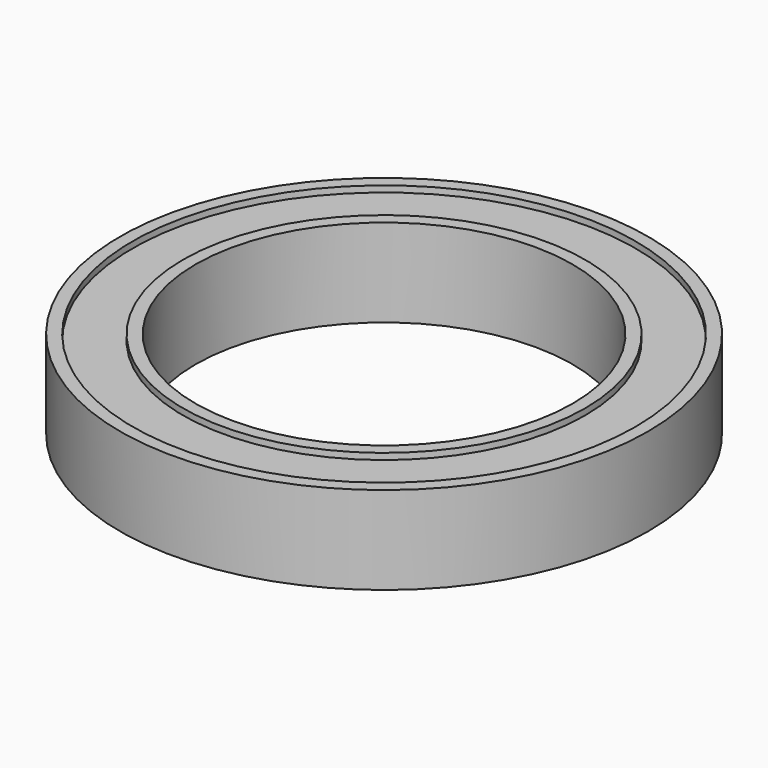
from build123d import *

# Parameters (mm, degrees)
SKETCH022_R     = 21
SKETCH022_R_2   = 15
PAD011_DEPTH    = 7
SKETCH023_R     = 20
SKETCH023_R_2   = 16
POCKET012_DEPTH = 0.5
SKETCH024_R     = 20
SKETCH024_R_2   = 16
POCKET013_DEPTH = 0.5


with BuildPart() as part:
    # Sketch022 → Pad011 (new body)
    with BuildSketch(Plane.XY):
        Circle(SKETCH022_R)
        Circle(SKETCH022_R_2, mode=Mode.SUBTRACT)
    extrude(amount=PAD011_DEPTH)

    # Sketch023 → Pocket012 (cut)
    with BuildSketch(Plane.XY.offset(7)):
        Circle(SKETCH023_R)
        Circle(SKETCH023_R_2, mode=Mode.SUBTRACT)
    extrude(amount=-POCKET012_DEPTH, mode=Mode.SUBTRACT)

    # Sketch024 → Pocket013 (cut)
    with BuildSketch(Plane.XY):
        Circle(SKETCH024_R)
        Circle(SKETCH024_R_2, mode=Mode.SUBTRACT)
    extrude(amount=POCKET013_DEPTH, mode=Mode.SUBTRACT)


solid = part.part
